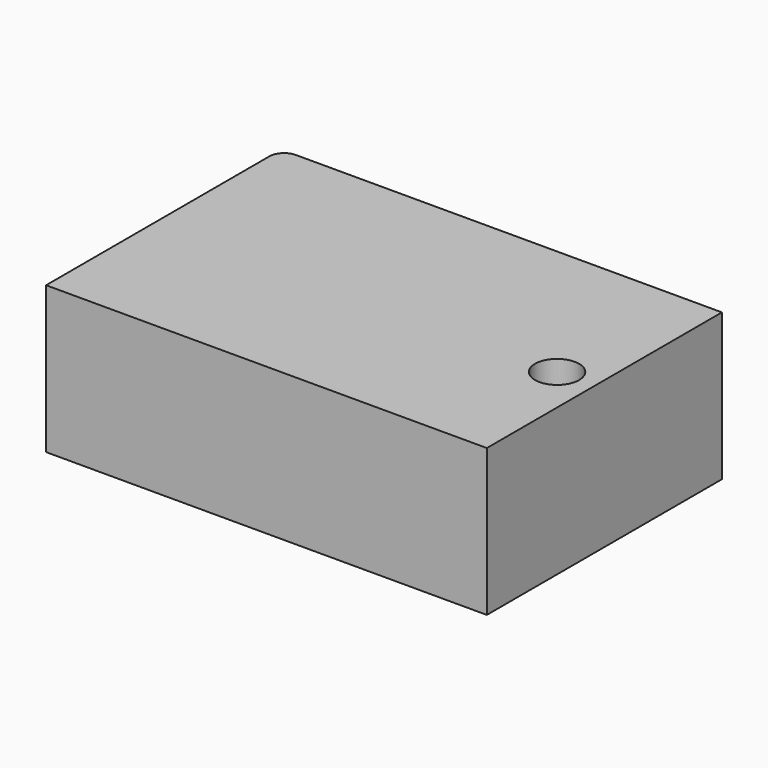
from build123d import *

# Parameters (mm, degrees)
F0_W     = 300
F0_H     = 200
F0_R     = 15
F1_DEPTH = 100
F2_R     = 10


with BuildPart() as f1:
    # F0 (on Top) → F1 (new body)
    with BuildSketch(Plane.XY):
        with Locations((9.53036, 21.334988)):
            Rectangle(F0_W, F0_H)
        with Locations((133.951858, 13.06554)):
            Circle(F0_R, mode=Mode.SUBTRACT)
    extrude(amount=F1_DEPTH)

    # F2
    f2_edges = [f1.edges().sort_by_distance(p)[0] for p in [
        (-140.46964, 121.334988, 50),
    ]]
    fillet(f2_edges, radius=F2_R)


solid = f1.part
